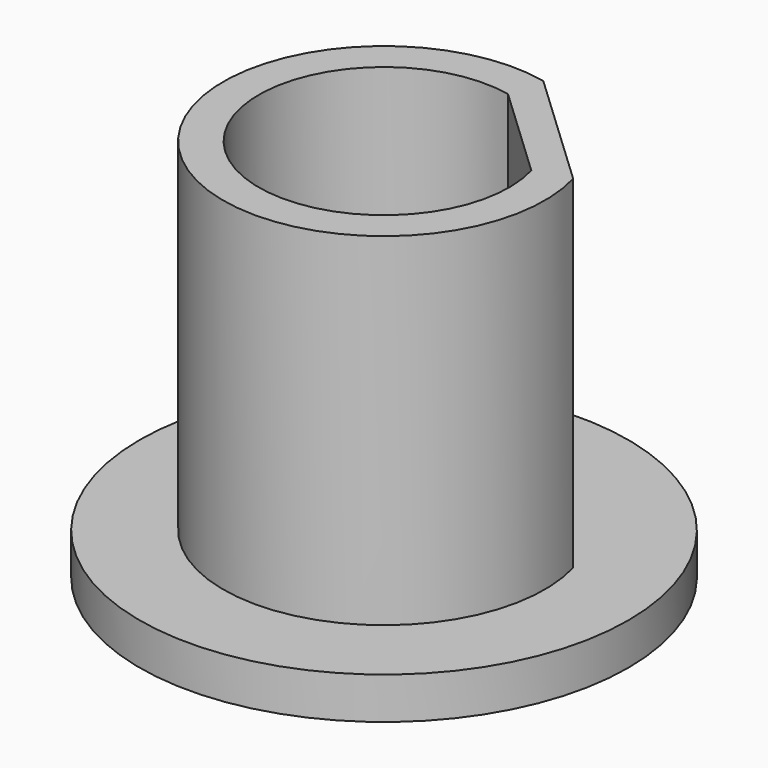
from build123d import *

# Parameters (mm, degrees)
F0_R     = 29.25
F1_DEPTH = 5
F3_DEPTH = 41
F6_DEPTH = 25.4


with BuildPart() as f1:
    # F0 (on Top) → F1 (new body)
    with BuildSketch(Plane.XY):
        Circle(F0_R)
    extrude(amount=F1_DEPTH)

    # F2 (on face) → F3 (join)
    with BuildSketch(Plane.XY.offset(5)):
        with BuildLine():
            Line((18.559394, 5.10993), (4.006055, 18.828543))
            ThreePointArc((4.006055, 18.828543), (-13.204164, -14.007589), (18.559394, 5.10993))
        make_face()
        with BuildLine():
            ThreePointArc((14.467536, 3.961112), (-10.288959, -10.915004), (3.10065, 14.676034))
            Line((3.10065, 14.676034), (14.467536, 3.961112))
        make_face(mode=Mode.SUBTRACT)
    extrude(amount=F3_DEPTH)

    # F5 (on face) → F6 (cut)
    with BuildSketch(Plane(origin=(0, 0, 0), x_dir=(1, 0, 0), z_dir=(0, 0, -1))):
        with BuildLine():
            Line((1.419319, -6.319578), (6.224832, -1.789692))
            ThreePointArc((6.224832, -1.789692), (-4.442773, 4.713099), (1.419319, -6.319578))
        make_face()
    extrude(amount=-F6_DEPTH, mode=Mode.SUBTRACT)


solid = f1.part
